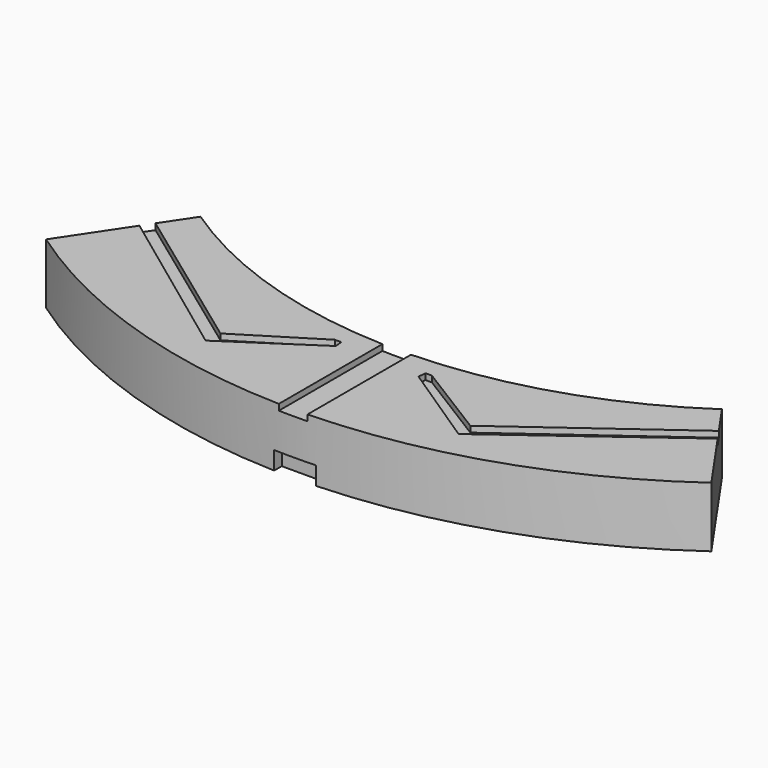
from build123d import *

# Parameters (mm, degrees)
PAD_DEPTH       = 2.5
POCKET_DEPTH    = 0.25
POCKET001_DEPTH = 0.25
SKETCH003_W     = 1.186114
SKETCH003_H     = 6.405018
POCKET002_DEPTH = 0.25
SKETCH004_W     = 1.725199
SKETCH004_H     = 0.602555
POCKET003_DEPTH = 0.75
SKETCH005_W     = 4.738121
SKETCH005_H     = 1.052914
POCKET004_DEPTH = 0.75


with BuildPart() as part:
    # Sketch → Pad (new body)
    with BuildSketch(Plane.XY):
        with BuildLine():
            Line((-13.690929, -42.874425), (-10.784039, -38.512783))
            ThreePointArc((-10.784039, -38.512783), (0.009699, -41.817759), (10.803322, -38.512408))
            Line((10.803322, -38.512408), (13.751288, -42.745101))
            ThreePointArc((-13.690929, -42.874425), (0.05074, -47.172732), (13.751288, -42.745101))
        make_face()
    extrude(amount=PAD_DEPTH)

    # Sketch001 (on Face6 of Pad) → Pocket (cut)
    with BuildSketch(Plane.XY.offset(2.5)):
        Polygon((-12.408767, -39.888699), (-5.236771, -45.186653), (-1.71352, -42.854664), (-1.742398, -42.529774), (-2.00953, -42.529774), (-5.173005, -44.496529), (-12.043387, -39.485844), align=None)
    extrude(amount=-POCKET_DEPTH, mode=Mode.SUBTRACT)

    # MirroredSketch → Pocket001 (cut)
    with BuildSketch(Plane.XY.offset(2.5)):
        Polygon((12.408767, -39.888699), (5.236771, -45.186653), (1.71352, -42.854664), (1.742398, -42.529774), (2.00953, -42.529774), (5.173005, -44.496529), (12.043387, -39.485844), align=None)
    extrude(amount=-POCKET001_DEPTH, mode=Mode.SUBTRACT)

    # Sketch003 (on Face4 of Pocket001) → Pocket002 (cut)
    with BuildSketch(Plane.XY.offset(2.5)):
        with Locations((-0.026573, -44.319071)):
            Rectangle(SKETCH003_W, SKETCH003_H)
    extrude(amount=-POCKET002_DEPTH, mode=Mode.SUBTRACT)

    # Sketch004 (on Face2 of Pocket002) → Pocket003 (cut)
    with BuildSketch(Plane(origin=(0, 0, 0), x_dir=(1, 0, 0), z_dir=(0, 0, -1))):
        with Locations((0.043732, 47.066338)):
            Rectangle(SKETCH004_W, SKETCH004_H)
    extrude(amount=-POCKET003_DEPTH, mode=Mode.SUBTRACT)

    # Sketch005 (on Face2 of Pocket003) → Pocket004 (cut)
    with BuildSketch(Plane(origin=(0, 0, 0), x_dir=(1, 0, 0), z_dir=(0, 0, -1))):
        with Locations((0.192932, 41.88571)):
            Rectangle(SKETCH005_W, SKETCH005_H)
    extrude(amount=-POCKET004_DEPTH, mode=Mode.SUBTRACT)


solid = part.part
